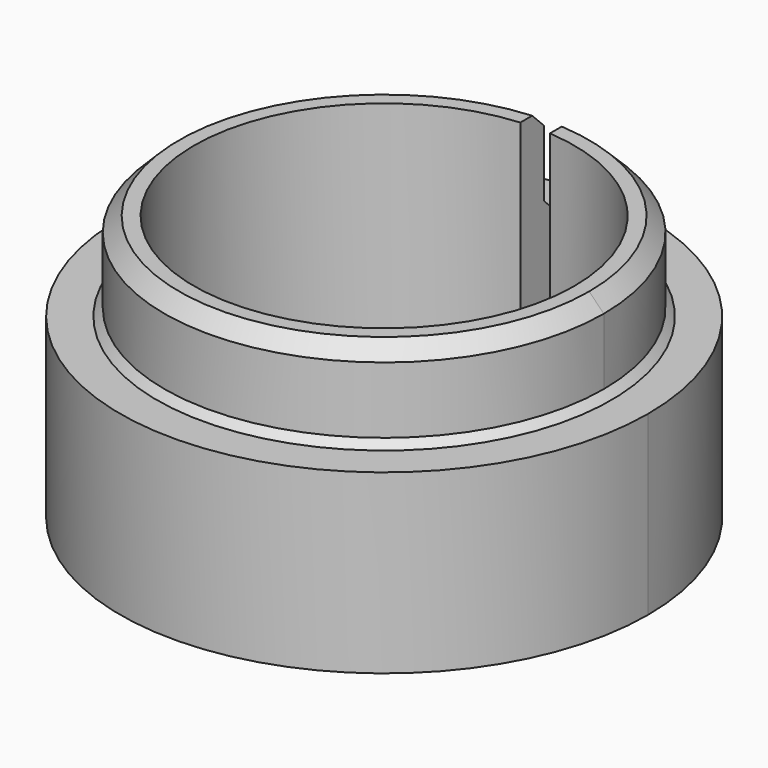
from build123d import *

# Parameters (mm, degrees)
CHAMFER_SIZE    = 0.5
CHAMFER001_SIZE = 1
CHAMFER002_SIZE = 0.5
SKETCH001_W     = 2
SKETCH001_H     = 21.821188
POCKET_DEPTH    = 18.001


with BuildPart() as part:
    # Sketch → Revolution (revolve)
    with BuildSketch(Plane.XZ):
        Polygon((12.9, 0), (17.9, 0), (17.9, 12), (14.9, 12), (14.9, 18), (12.9, 18), align=None)
    revolve(axis=Axis((0, 0, 0), (0, 0, 1)))

    # Chamfer
    chamfer_edges = [part.edges().sort_by_distance(p)[0] for p in [
        (-14.9, 0, 12),
    ]]
    chamfer(chamfer_edges, length=CHAMFER_SIZE)

    # Chamfer001
    chamfer001_edges = [part.edges().sort_by_distance(p)[0] for p in [
        (-14.9, 0, 18),
    ]]
    chamfer(chamfer001_edges, length=CHAMFER001_SIZE)

    # Chamfer002
    chamfer002_edges = [part.edges().sort_by_distance(p)[0] for p in [
        (-12.9, 0, 0),
    ]]
    chamfer(chamfer002_edges, length=CHAMFER002_SIZE)

    # Sketch001 (on Face4 of Chamfer002) → Pocket (cut, through all)
    with BuildSketch(Plane(origin=(0, 0, 0), x_dir=(1, 0, 0), z_dir=(0, 0, -1))):
        with Locations((-0.050035, -17.700875)):
            Rectangle(SKETCH001_W, SKETCH001_H)
    extrude(amount=-POCKET_DEPTH, mode=Mode.SUBTRACT)


solid = part.part
